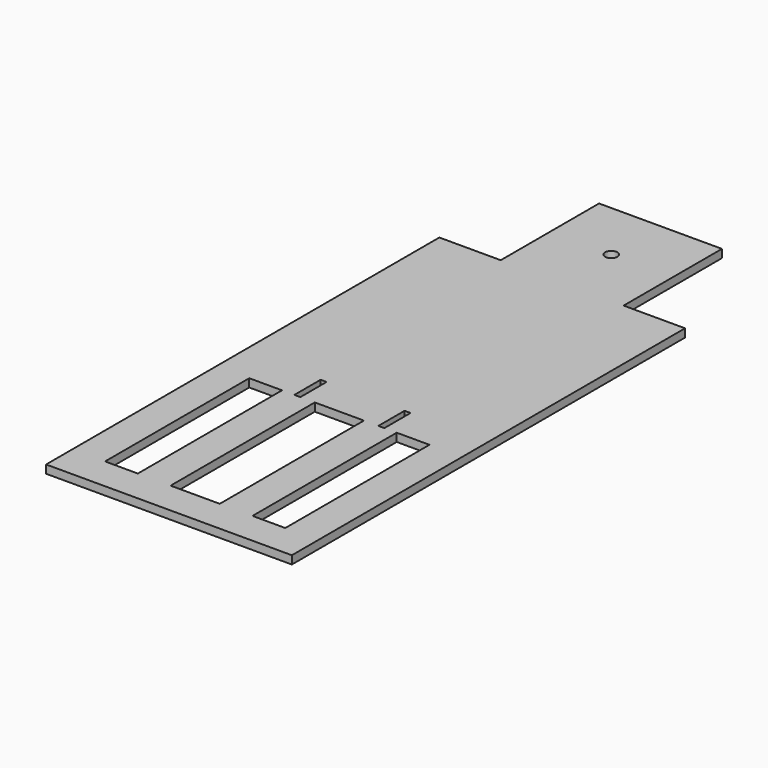
from build123d import *

# Parameters (mm, degrees)
F0_W     = 101.6
F0_H     = 558.8
F0_W_2   = 18.542
F0_H_2   = 101.6
F0_W_3   = 152.4
F0_W_4   = 381
F0_H_3   = 381
F0_R     = 19.05
F1_DEPTH = 25.4


with BuildPart() as f1:
    # F0 (on Top) → F1 (new body)
    with BuildSketch(Plane.XY):
        Polygon((381, -762), (381, 762), (190.5, 762), (-190.5, 762), (-381, 762), (-381, -762), align=None)
        with Locations((-228.6, -381)):
            Rectangle(F0_W, F0_H, mode=Mode.SUBTRACT)
        with Locations((-130.175, -50.8)):
            Rectangle(F0_W_2, F0_H_2, mode=Mode.SUBTRACT)
        with Locations((0, -381)):
            Rectangle(F0_W_3, F0_H, mode=Mode.SUBTRACT)
        with Locations((228.6, -381)):
            Rectangle(F0_W, F0_H, mode=Mode.SUBTRACT)
        with Locations((130.175, -50.8)):
            Rectangle(F0_W_2, F0_H_2, mode=Mode.SUBTRACT)
        with Locations((0, 952.5)):
            Rectangle(F0_W_4, F0_H_3)
        with Locations((0, 952.5)):
            Circle(F0_R, mode=Mode.SUBTRACT)
    extrude(amount=F1_DEPTH)


solid = f1.part
